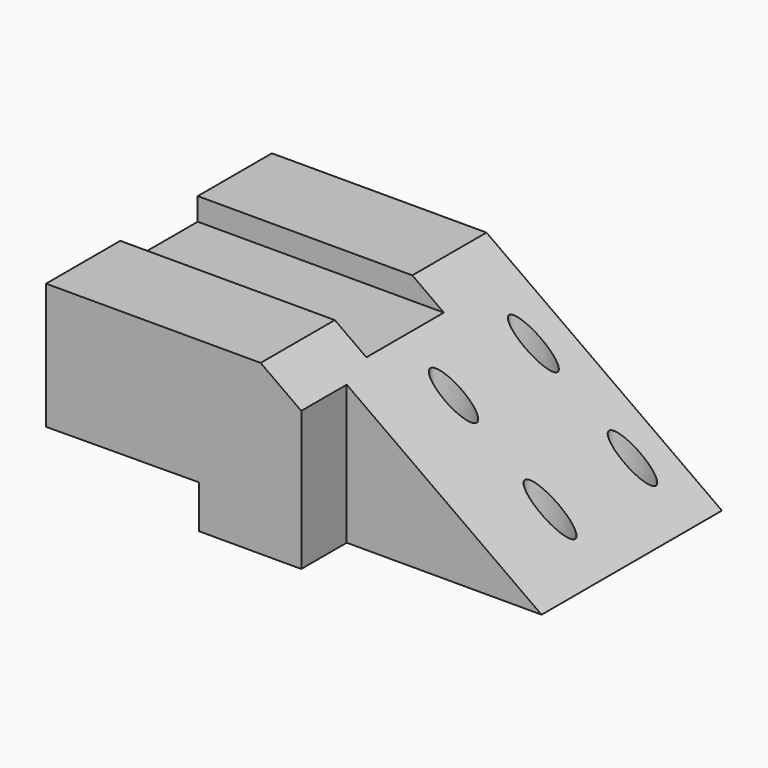
from build123d import *

# Parameters (mm, degrees)
F1_DEPTH      = 30.48
F1_DEPTH_BACK = 31.496
F2_W          = 21.2626811117
F2_H          = 4.9490742385
F3_DEPTH      = 62.23
F4_W          = 42.7741259336
F4_H          = 12.4774224401
F5_DEPTH      = 50.038
F7_DEPTH      = 40.386


with BuildPart() as f1:
    # F0 (on Front) → F1 (new body, two sides)
    with BuildSketch(Plane.XZ) as f1_sk:
        Polygon((-51.5070110559, 36.9347445667), (-51.5070110559, 9.2565976083), (-17.9632995278, 9.4398977235), (-17.9632995278, 0), (47.2911335528, 0), (-4.39917529, 36.9347445667), (-39.2259806395, 36.9347445667), align=None)
    extrude(amount=F1_DEPTH)
    extrude(f1_sk.sketch, amount=-F1_DEPTH_BACK)

    # F2 (on face) → F3 (cut)
    with BuildSketch(Plane(origin=(-51.5070110559, 0, 0), x_dir=(0, -1, 0), z_dir=(-1, 0, 0))):
        with Locations((-0.508, 34.4602074474)):
            Rectangle(F2_W, F2_H)
    extrude(amount=-F3_DEPTH, mode=Mode.SUBTRACT)

    # F4 (on face) → F5 (cut)
    with BuildSketch(Plane(origin=(0, 0, 0), x_dir=(1, 0, 0), z_dir=(0, 0, -1))):
        with Locations((25.904070586, 24.24128878)):
            Rectangle(F4_W, F4_H)
    extrude(amount=-F5_DEPTH, mode=Mode.SUBTRACT)

    # F6 (on face) → F7 (cut)
    with BuildSketch(Plane(origin=(0, 0, 0), x_dir=(1, 0, 0), z_dir=(0, 0, -1))):
        with BuildLine():
            add(Edge.make_bspline(
                [(8.4830916408, 0), (8.4830916408, -4.1333669656), (16.1046412347, -2.0666834828), (23.7261908286, 0), (16.1046412347, 2.0666834828), (8.4830916408, 4.1333669656), (8.4830916408, 0)],
                knots=[0, 0, 0, 2.0943951024, 2.0943951024, 4.1887902048, 4.1887902048, 6.2831853072, 6.2831853072, 6.2831853072], degree=2, weights=[1, 0.5, 1, 0.5, 1, 0.5, 1]))
        make_face()
        with BuildLine():
            add(Edge.make_bspline(
                [(7.5152562931, -22.8207223117), (7.5152562931, -26.6305194653), (15.4887624085, -24.7256208885), (23.4622685239, -22.8207223117), (15.4887624085, -20.9158237349), (7.5152562931, -19.0109251582), (7.5152562931, -22.8207223117)],
                knots=[0, 0, 0, 2.0943951024, 2.0943951024, 4.1887902048, 4.1887902048, 6.2831853072, 6.2831853072, 6.2831853072], degree=2, weights=[1, 0.5, 1, 0.5, 1, 0.5, 1]))
        make_face()
        with BuildLine():
            add(Edge.make_bspline(
                [(29.1589088738, -23.1949742883), (29.1589088738, -27.0670063105), (36.8574578315, -25.1309902994), (44.5560067892, -23.1949742883), (36.8574578315, -21.2589582773), (29.1589088738, -19.3229422662), (29.1589088738, -23.1949742883)],
                knots=[0, 0, 0, 2.0943951024, 2.0943951024, 4.1887902048, 4.1887902048, 6.2831853072, 6.2831853072, 6.2831853072], degree=2, weights=[1, 0.5, 1, 0.5, 1, 0.5, 1]))
        make_face()
        with BuildLine():
            add(Edge.make_bspline(
                [(29.2485039681, 0), (29.2485039681, -4.0503729429), (37.4969588593, -2.0251864715), (45.7454137504, 0), (37.4969588593, 2.0251864715), (29.2485039681, 4.0503729429), (29.2485039681, 0)],
                knots=[0, 0, 0, 2.0943951024, 2.0943951024, 4.1887902048, 4.1887902048, 6.2831853072, 6.2831853072, 6.2831853072], degree=2, weights=[1, 0.5, 1, 0.5, 1, 0.5, 1]))
        make_face()
    extrude(amount=-F7_DEPTH, mode=Mode.SUBTRACT)


solid = f1.part
